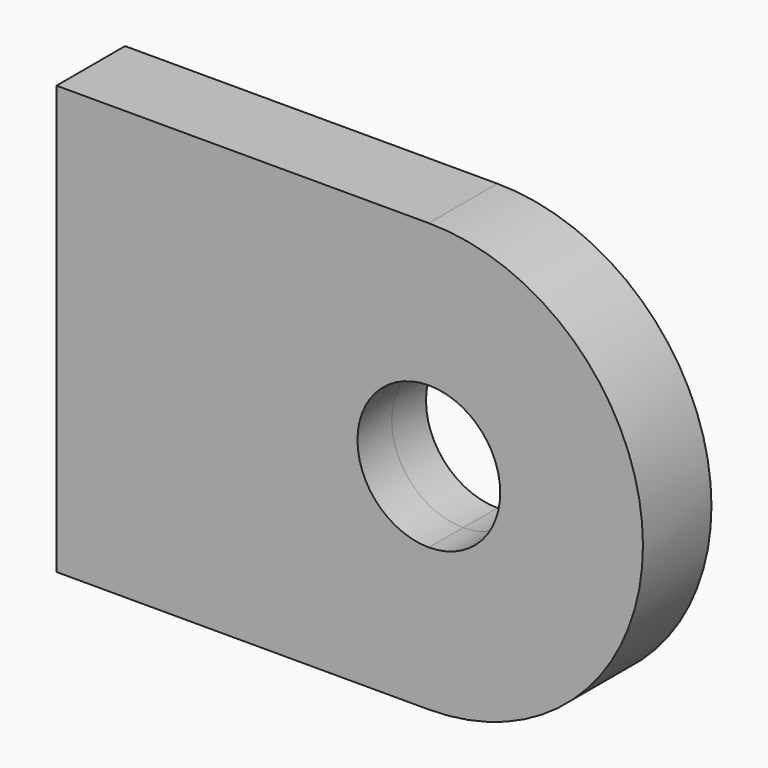
from build123d import *

# Parameters (mm, degrees)
F1_DEPTH = 1.499997


with BuildPart() as f1:
    # F0 (on Front) → F1 (new body, symmetric)
    with BuildSketch(Plane.XZ):
        with BuildLine():
            ThreePointArc((0, -7.4999977), (5.3032992326, -5.3032992326), (7.4999977, 0))
            ThreePointArc((7.4999977, 0), (5.3032992326, 5.3032992326), (0, 7.4999977))
            Line((0, 7.4999977), (0, 2.499995))
            ThreePointArc((0, 2.499995), (1.7677634174, 1.7677634174), (2.499995, 0))
            ThreePointArc((2.499995, 0), (1.7677634174, -1.7677634174), (0, -2.499995))
            Line((0, -2.499995), (0, -7.4999977))
        make_face()
        with BuildLine():
            Line((0, 2.499995), (0, 7.4999977))
            ThreePointArc((0, 7.4999977), (-5.3032992326, 5.3032992326), (-7.4999977, 0))
            ThreePointArc((-7.4999977, 0), (-5.3032992326, -5.3032992326), (0, -7.4999977))
            Line((0, -7.4999977), (0, -2.499995))
            ThreePointArc((0, -2.499995), (-2.499995, 0), (0, 2.499995))
        make_face()
        with BuildLine():
            ThreePointArc((-7.4999977, 0), (-5.3032992326, 5.3032992326), (0, 7.4999977))
            Line((0, 7.4999977), (-7.4999977, 7.4999977))
            Line((-7.4999977, 7.4999977), (-7.4999977, 0))
        make_face()
        with BuildLine():
            Line((-7.4999977, -7.4999977), (0, -7.4999977))
            ThreePointArc((0, -7.4999977), (-5.3032992326, -5.3032992326), (-7.4999977, 0))
            Line((-7.4999977, 0), (-7.4999977, -7.4999977))
        make_face()
        Polygon((-7.4999977, -7.4999977), (-7.4999977, 0), (-7.4999977, 7.4999977), (-13.0426231772, 7.4999977), (-13.0426231772, -7.4999977), align=None)
    extrude(amount=F1_DEPTH, both=True)


solid = f1.part
